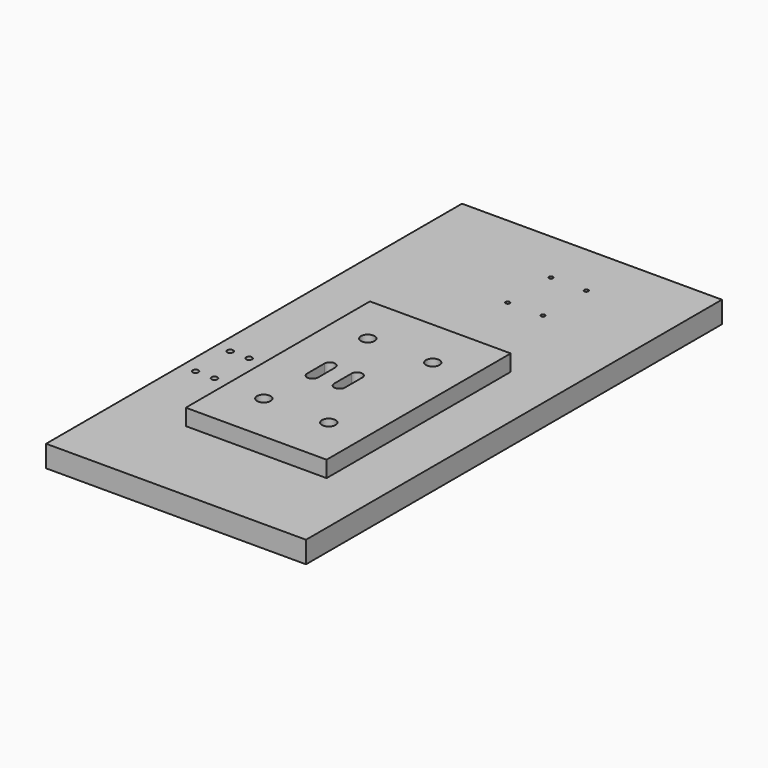
from build123d import *

# Parameters (mm, degrees)
F0_W     = 304.8
F0_H     = 609.6
F0_R     = 2.38125
F1_DEPTH = 25.4
F2_R     = 3.4544
F3_DEPTH = 25.4
F4_START = 12.7
F2_W     = 165.1
F2_H     = 269.875
F2_R_2   = 7.9375
F2_R_3   = 4.7625
F4_DEPTH = 19.05
F5_START = 19.05
F5_DEPTH = 234.95
F7_DEPTH = 25.4


with BuildPart() as f1:
    # F0 (on Top) → F1 (new body)
    with BuildSketch(Plane.XY):
        with Locations((0, -304.8)):
            Rectangle(F0_W, F0_H)
        with Locations((2.8575, -127)):
            Circle(F0_R, mode=Mode.SUBTRACT)
        with Locations((44.1325, -127)):
            Circle(F0_R, mode=Mode.SUBTRACT)
        with Locations((2.8575, -63.5)):
            Circle(F0_R, mode=Mode.SUBTRACT)
        with Locations((44.1325, -63.5)):
            Circle(F0_R, mode=Mode.SUBTRACT)
    extrude(amount=F1_DEPTH)

    # F2 (on face) → F3 (cut)
    with BuildSketch(Plane.XY.offset(25.4)):
        with Locations((-135.255, -361.15625)):
            Circle(F2_R)
        with Locations((-113.03, -361.15625)):
            Circle(F2_R)
        with Locations((-113.03, -411.95625)):
            Circle(F2_R)
        with Locations((-135.255, -411.95625)):
            Circle(F2_R)
    extrude(amount=-F3_DEPTH, mode=Mode.SUBTRACT)


with BuildPart() as f4:
    # F2 (on face) → F4 (new body)
    with BuildSketch(Plane.XY.offset(25.4).offset(F4_START)):
        with Locations((23.495, -386.55625)):
            Rectangle(F2_W, F2_H)
        with Locations((-14.605, -462.75625)):
            Circle(F2_R_2, mode=Mode.SUBTRACT)
        with Locations((-14.605, -310.35625)):
            Circle(F2_R_2, mode=Mode.SUBTRACT)
        with Locations((61.595, -462.75625)):
            Circle(F2_R_2, mode=Mode.SUBTRACT)
        with Locations((61.595, -310.35625)):
            Circle(F2_R_2, mode=Mode.SUBTRACT)
        with Locations((-14.605, -310.35625)):
            Circle(F2_R_2)
        with Locations((-14.605, -310.35625)):
            Circle(F2_R_3, mode=Mode.SUBTRACT)
        with Locations((61.595, -310.35625)):
            Circle(F2_R_2)
        with Locations((61.595, -310.35625)):
            Circle(F2_R_3, mode=Mode.SUBTRACT)
        with Locations((-14.605, -462.75625)):
            Circle(F2_R_2)
        with Locations((-14.605, -462.75625)):
            Circle(F2_R_3, mode=Mode.SUBTRACT)
        with Locations((61.595, -462.75625)):
            Circle(F2_R_2)
        with Locations((61.595, -462.75625)):
            Circle(F2_R_3, mode=Mode.SUBTRACT)
    extrude(amount=F4_DEPTH)

    # F2 (on face) → F5 (cut)
    with BuildSketch(Plane.XY.offset(25.4).offset(F5_START)):
        with Locations((-14.605, -310.35625)):
            Circle(F2_R_2)
        with Locations((-14.605, -310.35625)):
            Circle(F2_R_3, mode=Mode.SUBTRACT)
        with Locations((-14.605, -310.35625)):
            Circle(F2_R_3)
        with Locations((61.595, -310.35625)):
            Circle(F2_R_2)
        with Locations((61.595, -310.35625)):
            Circle(F2_R_3, mode=Mode.SUBTRACT)
        with Locations((61.595, -310.35625)):
            Circle(F2_R_3)
        with Locations((-14.605, -462.75625)):
            Circle(F2_R_2)
        with Locations((-14.605, -462.75625)):
            Circle(F2_R_3, mode=Mode.SUBTRACT)
        with Locations((-14.605, -462.75625)):
            Circle(F2_R_3)
        with Locations((61.595, -462.75625)):
            Circle(F2_R_2)
        with Locations((61.595, -462.75625)):
            Circle(F2_R_3, mode=Mode.SUBTRACT)
        with Locations((61.595, -462.75625)):
            Circle(F2_R_3)
    extrude(amount=F5_DEPTH, mode=Mode.SUBTRACT)

    # F6 (on face) → F7 (cut)
    with BuildSketch(Plane.XY.offset(57.15)):
        with BuildLine():
            Line((-1.905, -399.25625), (-1.905, -373.85625))
            ThreePointArc((-1.905, -373.85625), (-8.255, -367.50625), (-14.605, -373.85625))
            Line((-14.605, -373.85625), (-14.605, -399.25625))
            ThreePointArc((-14.605, -399.25625), (-8.255, -405.60625), (-1.905, -399.25625))
        make_face()
        with BuildLine():
            Line((29.845, -399.25625), (29.845, -373.85625))
            ThreePointArc((29.845, -373.85625), (23.495, -367.50625), (17.145, -373.85625))
            Line((17.145, -373.85625), (17.145, -399.25625))
            ThreePointArc((17.145, -399.25625), (23.495, -405.60625), (29.845, -399.25625))
        make_face()
    extrude(amount=-F7_DEPTH, mode=Mode.SUBTRACT)


solid = Compound([f1.part, f4.part])
